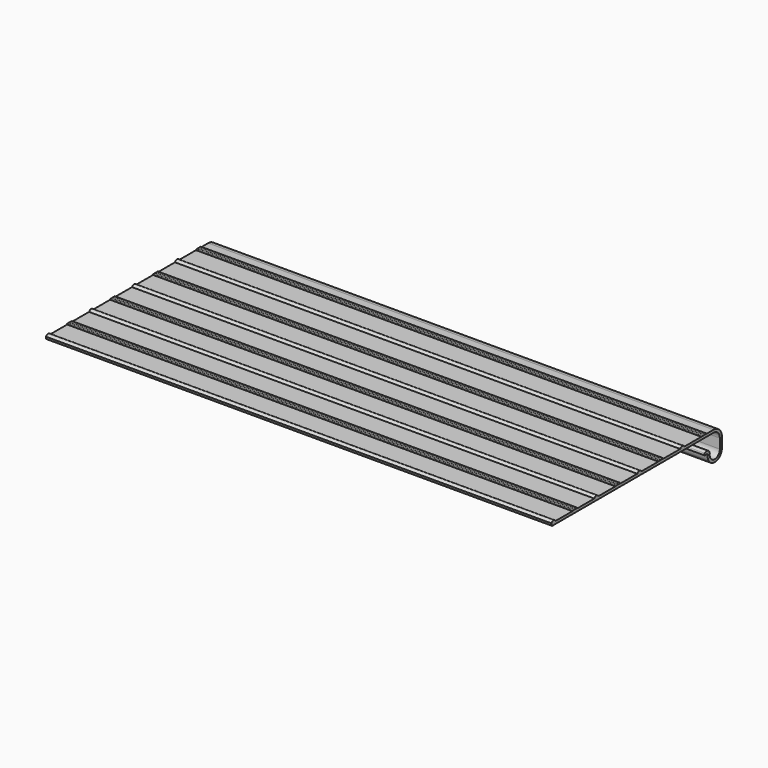
from build123d import *

# Parameters (mm, degrees)
F1_DEPTH = 609.6


with BuildPart() as f1:
    # F0 (on Right) → F1 (new body)
    with BuildSketch(Plane.YZ):
        with BuildLine():
            Line((-59.69, 12.737884), (-53.34, 12.737884))
            ThreePointArc((-53.34, 12.737884), (-56.515, 14.642884), (-59.69, 12.737884))
        make_face()
        with BuildLine():
            ThreePointArc((-118.11, 12.737884), (-121.285, 14.642884), (-124.46, 12.737884))
            Line((-124.46, 12.737884), (-118.11, 12.737884))
        make_face()
        with BuildLine():
            Line((-252.4125, 9.562884), (-9.525, 9.562884))
            ThreePointArc((-9.525, 9.562884), (-2.789808, 6.773076), (0, 0.037884))
            Line((0, 0.037884), (0, -11.720433))
            ThreePointArc((0, -11.720433), (-8.067335, -19.327291), (-15.187478, -10.827306))
            ThreePointArc((-15.187478, -10.827306), (-17.598242, -6.218379), (-22.768182, -6.789089))
            ThreePointArc((-22.768182, -6.789089), (-22.948389, -9.016326), (-20.72294, -9.217406))
            ThreePointArc((-20.72294, -9.217406), (-19.12196, -9.047525), (-18.340594, -10.45517))
            ThreePointArc((-18.340594, -10.45517), (-8.253725, -22.496816), (3.175, -11.720433))
            Line((3.175, -11.720433), (3.175, 0.037884))
            ThreePointArc((3.175, 0.037884), (-0.544744, 9.01814), (-9.525, 12.737884))
            Line((-9.525, 12.737884), (-20.32, 12.737884))
            Line((-20.32, 12.737884), (-21.082, 12.737884))
            Line((-21.082, 12.737884), (-21.844, 12.737884))
            Line((-21.844, 12.737884), (-22.606, 12.737884))
            Line((-22.606, 12.737884), (-23.368, 12.737884))
            Line((-23.368, 12.737884), (-24.13, 12.737884))
            Line((-24.13, 12.737884), (-24.892, 12.737884))
            Line((-24.892, 12.737884), (-25.654, 12.737884))
            Line((-25.654, 12.737884), (-26.416, 12.737884))
            Line((-26.416, 12.737884), (-27.178, 12.737884))
            Line((-27.178, 12.737884), (-27.94, 12.737884))
            Line((-27.94, 12.737884), (-53.34, 12.737884))
            Line((-53.34, 12.737884), (-59.69, 12.737884))
            Line((-59.69, 12.737884), (-85.09, 12.737884))
            Line((-85.09, 12.737884), (-85.852, 12.737884))
            Line((-85.852, 12.737884), (-86.614, 12.737884))
            Line((-86.614, 12.737884), (-87.376, 12.737884))
            Line((-87.376, 12.737884), (-88.138, 12.737884))
            Line((-88.138, 12.737884), (-88.9, 12.737884))
            Line((-88.9, 12.737884), (-89.662, 12.737884))
            Line((-89.662, 12.737884), (-90.424, 12.737884))
            Line((-90.424, 12.737884), (-91.186, 12.737884))
            Line((-91.186, 12.737884), (-91.948, 12.737884))
            Line((-91.948, 12.737884), (-92.71, 12.737884))
            Line((-92.71, 12.737884), (-118.11, 12.737884))
            Line((-118.11, 12.737884), (-124.46, 12.737884))
            Line((-124.46, 12.737884), (-149.86, 12.737884))
            Line((-149.86, 12.737884), (-150.622, 12.737884))
            Line((-150.622, 12.737884), (-151.384, 12.737884))
            Line((-151.384, 12.737884), (-152.146, 12.737884))
            Line((-152.146, 12.737884), (-152.908, 12.737884))
            Line((-152.908, 12.737884), (-153.67, 12.737884))
            Line((-153.67, 12.737884), (-154.432, 12.737884))
            Line((-154.432, 12.737884), (-155.194, 12.737884))
            Line((-155.194, 12.737884), (-155.956, 12.737884))
            Line((-155.956, 12.737884), (-156.718, 12.737884))
            Line((-156.718, 12.737884), (-157.48, 12.737884))
            Line((-157.48, 12.737884), (-182.88, 12.737884))
            Line((-182.88, 12.737884), (-189.23, 12.737884))
            Line((-189.23, 12.737884), (-214.63, 12.737884))
            Line((-214.63, 12.737884), (-215.392, 12.737884))
            Line((-215.392, 12.737884), (-216.154, 12.737884))
            Line((-216.154, 12.737884), (-216.916, 12.737884))
            Line((-216.916, 12.737884), (-217.678, 12.737884))
            Line((-217.678, 12.737884), (-218.44, 12.737884))
            Line((-218.44, 12.737884), (-219.202, 12.737884))
            Line((-219.202, 12.737884), (-219.964, 12.737884))
            Line((-219.964, 12.737884), (-220.726, 12.737884))
            Line((-220.726, 12.737884), (-221.488, 12.737884))
            Line((-221.488, 12.737884), (-222.25, 12.737884))
            Line((-222.25, 12.737884), (-247.65, 12.737884))
            Line((-247.65, 12.737884), (-254, 12.737884))
            Line((-254, 12.737884), (-254, 11.150384))
            ThreePointArc((-254, 11.150384), (-253.535032, 10.027852), (-252.4125, 9.562884))
        make_face()
        with BuildLine():
            ThreePointArc((-247.65, 12.737884), (-250.825, 14.642884), (-254, 12.737884))
            Line((-254, 12.737884), (-247.65, 12.737884))
        make_face()
        with BuildLine():
            ThreePointArc((-182.88, 12.737884), (-186.055, 14.642884), (-189.23, 12.737884))
            Line((-189.23, 12.737884), (-182.88, 12.737884))
        make_face()
        Polygon((-85.852, 12.737884), (-85.09, 12.737884), (-85.852, 13.753884), align=None)
        Polygon((-21.082, 12.737884), (-20.32, 12.737884), (-21.082, 13.753884), align=None)
        Polygon((-222.25, 13.753884), (-222.25, 12.737884), (-221.488, 12.737884), align=None)
        Polygon((-21.844, 12.737884), (-21.082, 12.737884), (-21.844, 13.753884), align=None)
        Polygon((-150.622, 13.753884), (-150.622, 12.737884), (-149.86, 12.737884), align=None)
        Polygon((-151.384, 13.753884), (-151.384, 12.737884), (-150.622, 12.737884), align=None)
        Polygon((-221.488, 13.753884), (-221.488, 12.737884), (-220.726, 12.737884), align=None)
        Polygon((-86.614, 12.737884), (-85.852, 12.737884), (-86.614, 13.753884), align=None)
        Polygon((-26.416, 12.737884), (-25.654, 12.737884), (-26.416, 13.753884), align=None)
        Polygon((-27.178, 12.737884), (-26.416, 12.737884), (-27.178, 13.753884), align=None)
        Polygon((-152.908, 13.753884), (-152.908, 12.737884), (-152.146, 12.737884), align=None)
        Polygon((-157.48, 13.753884), (-157.48, 12.737884), (-156.718, 12.737884), align=None)
        Polygon((-215.392, 13.753884), (-215.392, 12.737884), (-214.63, 12.737884), align=None)
        Polygon((-92.71, 13.753884), (-92.71, 12.737884), (-91.948, 12.737884), align=None)
        Polygon((-89.662, 12.737884), (-88.9, 12.737884), (-89.662, 13.753884), align=None)
        Polygon((-155.194, 13.753884), (-155.194, 12.737884), (-154.432, 12.737884), align=None)
        Polygon((-153.67, 13.753884), (-153.67, 12.737884), (-152.908, 12.737884), align=None)
        Polygon((-91.948, 12.737884), (-91.186, 12.737884), (-91.948, 13.753884), align=None)
        Polygon((-87.376, 12.737884), (-86.614, 12.737884), (-87.376, 13.753884), align=None)
        Polygon((-24.13, 12.737884), (-23.368, 12.737884), (-24.13, 13.753884), align=None)
        Polygon((-27.94, 12.737884), (-27.178, 12.737884), (-27.94, 13.753884), align=None)
        Polygon((-90.424, 12.737884), (-89.662, 12.737884), (-90.424, 13.753884), align=None)
        Polygon((-23.368, 12.737884), (-22.606, 12.737884), (-23.368, 13.753884), align=None)
        Polygon((-218.44, 13.753884), (-218.44, 12.737884), (-217.678, 12.737884), align=None)
        Polygon((-219.202, 13.753884), (-219.202, 12.737884), (-218.44, 12.737884), align=None)
        Polygon((-216.154, 13.753884), (-216.154, 12.737884), (-215.392, 12.737884), align=None)
        Polygon((-155.956, 13.753884), (-155.956, 12.737884), (-155.194, 12.737884), align=None)
        Polygon((-219.964, 13.753884), (-219.964, 12.737884), (-219.202, 12.737884), align=None)
        Polygon((-88.138, 12.737884), (-87.376, 12.737884), (-88.138, 13.753884), align=None)
        Polygon((-88.9, 12.737884), (-88.138, 12.737884), (-88.9, 13.753884), align=None)
        Polygon((-24.892, 12.737884), (-24.13, 12.737884), (-24.892, 13.753884), align=None)
        Polygon((-152.146, 13.753884), (-152.146, 12.737884), (-151.384, 12.737884), align=None)
        Polygon((-220.726, 13.753884), (-220.726, 12.737884), (-219.964, 12.737884), align=None)
        Polygon((-216.916, 13.753884), (-216.916, 12.737884), (-216.154, 12.737884), align=None)
        Polygon((-156.718, 13.753884), (-156.718, 12.737884), (-155.956, 12.737884), align=None)
        Polygon((-154.432, 13.753884), (-154.432, 12.737884), (-153.67, 12.737884), align=None)
        Polygon((-217.678, 13.753884), (-217.678, 12.737884), (-216.916, 12.737884), align=None)
        Polygon((-25.654, 12.737884), (-24.892, 12.737884), (-25.654, 13.753884), align=None)
        Polygon((-22.606, 12.737884), (-21.844, 12.737884), (-22.606, 13.753884), align=None)
        Polygon((-91.186, 12.737884), (-90.424, 12.737884), (-91.186, 13.753884), align=None)
    extrude(amount=F1_DEPTH)


solid = f1.part
